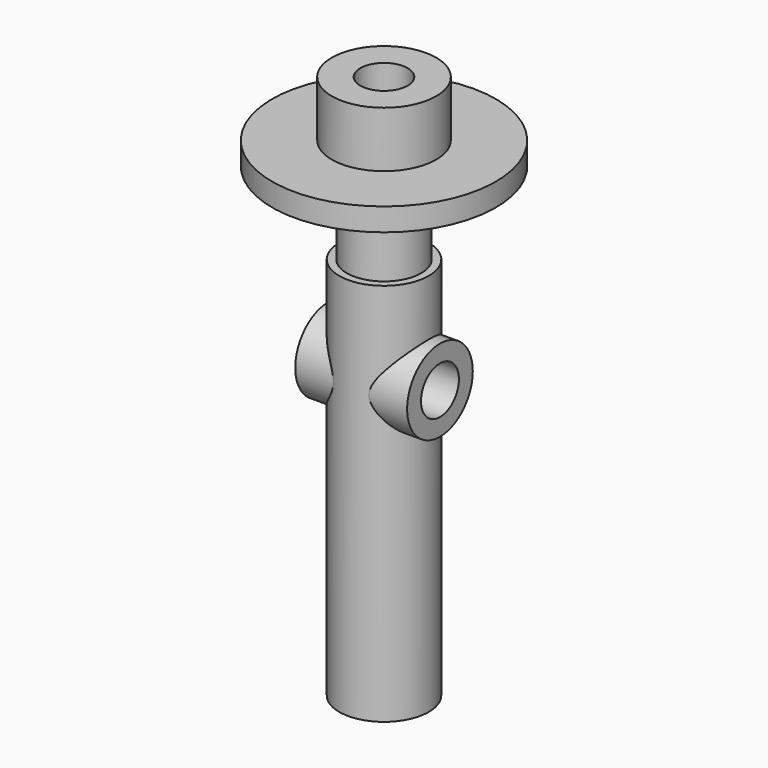
from build123d import *

# Parameters (mm, degrees)
F3_D     = 6.35
F4_R     = 5.5
F5_DEPTH = 7.5
F7_D     = 6.35


with BuildPart() as f1:
    # F0 (on Right) → F1 (revolve)
    with BuildSketch(Plane.YZ):
        Polygon((0, 37.062926), (0, -35.937074), (6, -35.937074), (6, 15.529456), (5, 15.529456), (5, 26.525273), (15, 26.525273), (15, 29.579665), (7, 29.579665), (7, 37.062926), align=None)
    revolve(axis=Axis((0, 0, 0.562926), (0, 0, 1)))

    # F3 (through all)
    with Locations(Plane.XY.offset(37.062926)):
        with Locations((0, 0)):
            Hole(F3_D / 2)

    # F4 (on Right) → F5 (join, symmetric)
    with BuildSketch(Plane.YZ):
        with Locations((0, 2.529456)):
            Circle(F4_R)
    extrude(amount=F5_DEPTH, both=True)

    # F7 (through all)
    with Locations(Plane.YZ.offset(7.5)):
        with Locations((0, 2.529456)):
            Hole(F7_D / 2)


solid = f1.part
